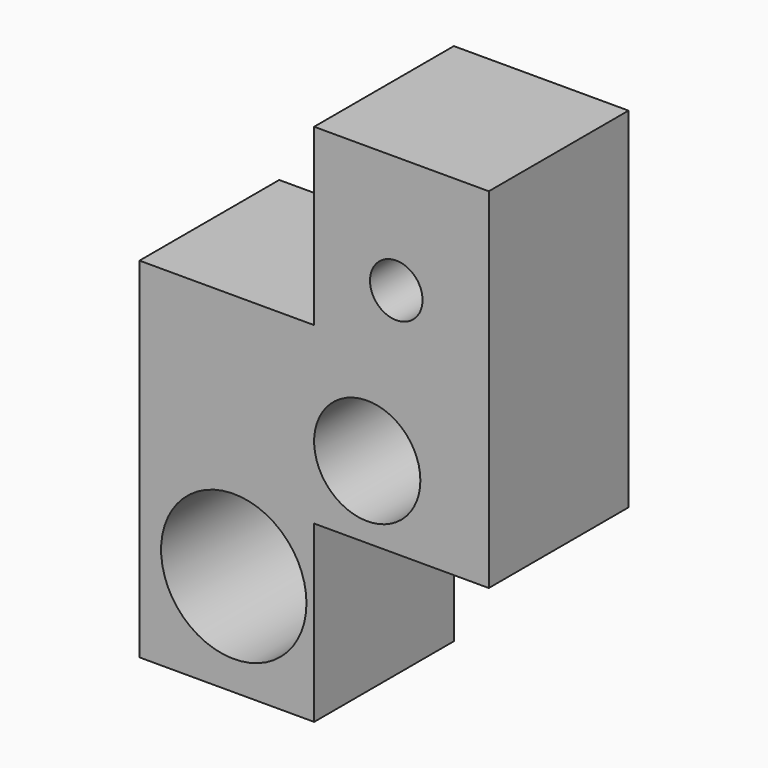
from build123d import *

# Parameters (mm, degrees)
F0_R     = 10.571471
F0_R_2   = 7.723691
F0_R_3   = 3.821059
F1_DEPTH = 25.4


with BuildPart() as f1:
    # F0 (on Front) → F1 (new body)
    with BuildSketch(Plane.XZ):
        Polygon((0, 0), (0, -25.4), (25.4, -25.4), (25.4, 0), (50.8, 0), (50.8, 25.4), (50.8, 50.8), (25.4, 50.8), (25.4, 25.4), (0, 25.4), align=None)
        with Locations((13.713269, -10.571471)):
            Circle(F0_R, mode=Mode.SUBTRACT)
        with Locations((33.123691, 10.526813)):
            Circle(F0_R_2, mode=Mode.SUBTRACT)
        with Locations((37.343346, 33.734929)):
            Circle(F0_R_3, mode=Mode.SUBTRACT)
    extrude(amount=F1_DEPTH)


solid = f1.part
